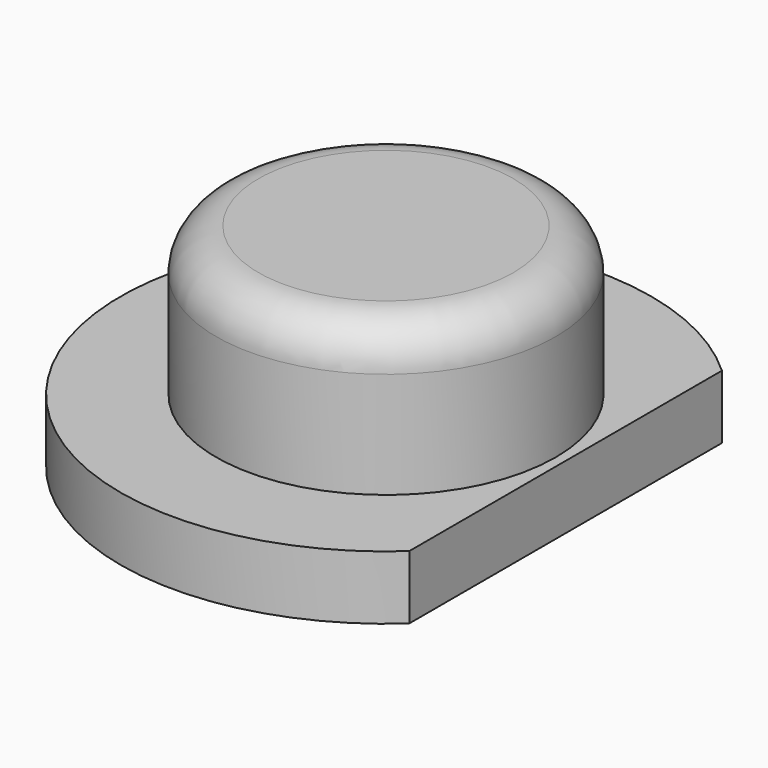
from build123d import *

# Parameters (mm, degrees)
BOX116_W          = 10
BOX116_H          = 10
BOX116_DEPTH      = 10
CYLINDER019_R     = 4
CYLINDER019_DEPTH = 5
FILLET003_R       = 1
CYLINDER018_R     = 6.25
CYLINDER018_DEPTH = 1.5


with BuildPart() as cube106:
    # Box116 → Box116 (new body)
    with BuildSketch(Plane(origin=(117.3, 9, 0), x_dir=(1, 0, 0), z_dir=(0, 0, 1))):
        with Locations((5, 5)):
            Rectangle(BOX116_W, BOX116_H)
    extrude(amount=BOX116_DEPTH)


with BuildPart() as obj1:
    # Cylinder019 → Cylinder019 (new body)
    with BuildSketch(Plane(origin=(131.07, 14, 6.3), x_dir=(1, 0, 0), z_dir=(0, 0, 1))):
        Circle(CYLINDER019_R)
    extrude(amount=CYLINDER019_DEPTH)

    # Fillet003
    fillet003_edges = [obj1.edges().sort_by_distance(p)[0] for p in [
        (127.07, 14, 11.3),
    ]]
    fillet(fillet003_edges, radius=FILLET003_R)


with BuildPart() as cut072:
    # Cylinder018 → Cylinder018 (new body)
    with BuildSketch(Plane(origin=(131.07, 14, 6.3), x_dir=(1, 0, 0), z_dir=(0, 0, 1))):
        Circle(CYLINDER018_R)
    extrude(amount=CYLINDER018_DEPTH)

    # Fusion014: union obj1
    add(obj1.part)


with BuildPart() as cut072_1:
    # Fusion014 placement: moved
    add(cut072.part.moved(Location((-18, 0, 0))))

    # Cut072: cut Cube106
    add(cube106.part, mode=Mode.SUBTRACT)


solid = cut072_1.part
